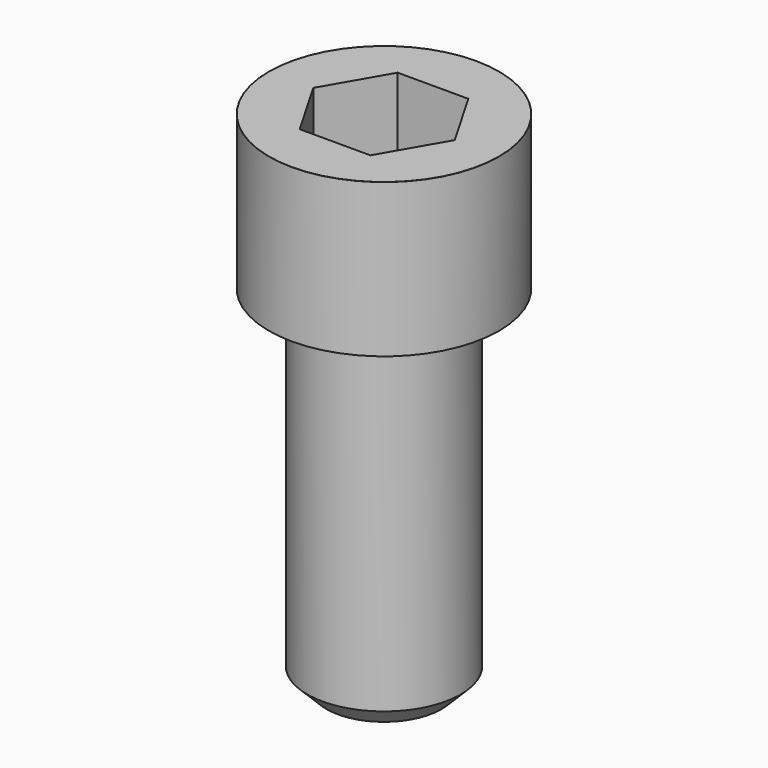
from build123d import *

# Parameters (mm, degrees)
POCKET_DEPTH = 19.15


with BuildPart() as part:
    # Sketch → Revolve (revolve)
    with BuildSketch(Plane.YZ):
        with BuildLine():
            Line((11.999, 0), (18, 0))
            Line((18, 0), (18, 23.97229))
            ThreePointArc((18, 23.97229), (17.991884, 23.991884), (17.97229, 24))
            Line((17.97229, 24), (0, 24))
            Line((0, -55), (0, 24))
            Line((9, -55), (0, -55))
            Line((12, -52), (9, -55))
            Line((12, -0.2), (12, -52))
            Line((11.999, 0), (12, -0.2))
        make_face()
    revolve(axis=Axis((0, 0, 0), (0, 0, 1)))

    # Sketch001 → Pocket (cut)
    with BuildSketch(Plane.XY.offset(24)):
        Polygon((11.056258, 0), (5.528129, 9.575), (-5.528129, 9.575), (-11.056258, 0), (-5.528129, -9.575), (5.528129, -9.575), align=None)
    extrude(amount=-POCKET_DEPTH, mode=Mode.SUBTRACT)


solid = part.part
